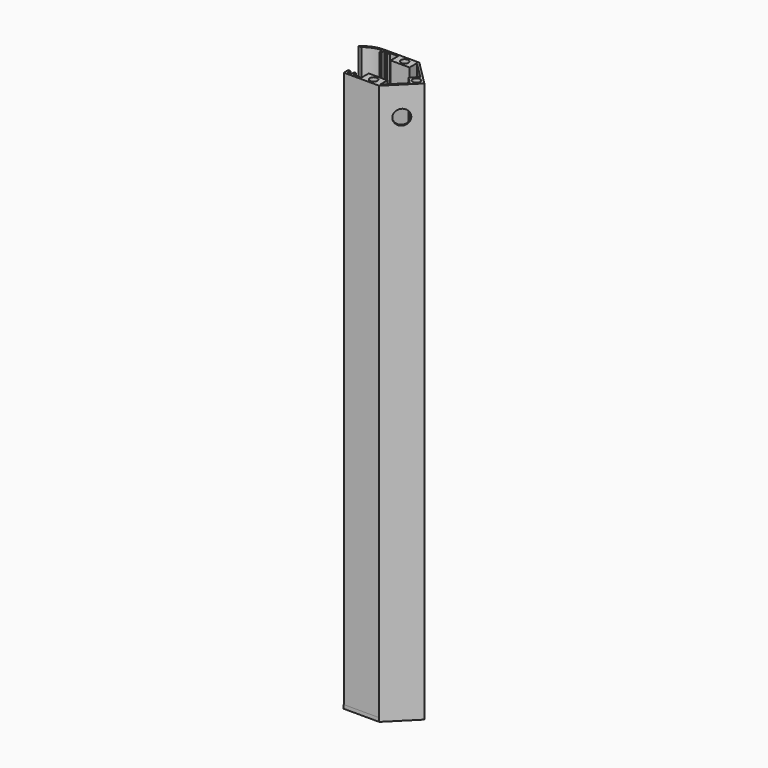
from build123d import *

# Parameters (mm, degrees)
SKETCH_R     = 1
PAD_DEPTH    = 150
SKETCH004_R  = 2
POCKET_DEPTH = 1
SKETCH001_R  = 1
PAD001_DEPTH = 1
SKETCH005_R  = 1.3
PAD002_DEPTH = 1
PAD003_DEPTH = 5


with BuildPart() as body:
    # Sketch → Pad (new body)
    with BuildSketch(Plane.XY):
        with BuildLine():
            Line((-4.454193, -6.866201), (5.045807, -6.866201))
            Line((11.763321, -0.148687), (5.045807, -6.866201))
            Line((5.045807, 6.568828), (11.763321, -0.148687))
            Line((-4.454193, 6.568828), (5.045807, 6.568828))
            ThreePointArc((-4.454193, 6.568828), (-7.200425, 6.003205), (-9.521158, 4.4297))
            Line((-9.521158, 4.4297), (-8.791158, 4.4297))
            ThreePointArc((-4.454193, 6.068828), (-6.769302, 5.637222), (-8.791158, 4.4297))
            Line((-4.454193, 5.068828), (-4.454193, 6.068828))
            Line((-4.454193, 5.068828), (-3.954193, 5.068828))
            Line((-3.954193, 5.068828), (-3.954193, 6.068828))
            Line((-3.954193, 6.068828), (-2.954193, 6.068828))
            Line((-2.954193, 5.068828), (-2.954193, 6.068828))
            Line((-2.954193, 5.068828), (-2.454193, 5.068828))
            Line((-2.454193, 5.068828), (-2.454193, 6.068828))
            Line((-2.454193, 6.068828), (-0.254193, 6.068828))
            Line((-0.254193, 6.068828), (-0.254193, 3.568828))
            Line((-0.254193, 3.568828), (4.814107, 3.568828))
            Line((4.814107, 6.068828), (4.814107, 3.568828))
            Line((4.814107, 6.068828), (9.27618, 1.606755))
            Line((9.27618, 1.606755), (7.513507, -0.185418))
            Line((9.263853, -1.953186), (7.513507, -0.185418))
            Line((4.850837, -6.366201), (9.263853, -1.953186))
            Line((4.850837, -6.366201), (4.850837, -3.866201))
            Line((-0.154193, -3.866201), (4.850837, -3.866201))
            Line((-0.154193, -6.366201), (-0.154193, -3.866201))
            Line((-2.354193, -6.366201), (-0.154193, -6.366201))
            Line((-2.354193, -5.366201), (-2.354193, -6.366201))
            Line((-2.854193, -5.366201), (-2.354193, -5.366201))
            Line((-2.854193, -6.366201), (-2.854193, -5.366201))
            Line((-3.854193, -6.366201), (-2.854193, -6.366201))
            Line((-3.854193, -5.366201), (-3.854193, -6.366201))
            Line((-4.454193, -5.366201), (-3.854193, -5.366201))
            Line((-4.454193, -6.866201), (-4.454193, -5.366201))
        make_face()
        with Locations((2.350837, -5.366201)):
            Circle(SKETCH_R, mode=Mode.SUBTRACT)
        with Locations((2.314107, 5.068828)):
            Circle(SKETCH_R, mode=Mode.SUBTRACT)
        with Locations((9.642001, -0.148687)):
            Circle(SKETCH_R, mode=Mode.SUBTRACT)
    extrude(amount=PAD_DEPTH)

    # Sketch004 (on Face2 of Pad) → Pocket (cut)
    with BuildSketch(Plane(origin=(5.956004, -5.956004, 0), x_dir=(0.707107, 0.707107, 0), z_dir=(0.707107, -0.707107, 0))):
        with Locations((3.462787, 142.306854)):
            Circle(SKETCH004_R)
    extrude(amount=-POCKET_DEPTH, mode=Mode.SUBTRACT)


with BuildPart() as body001:
    # Sketch001 → Pad001 (new body)
    with BuildSketch(Plane.XY):
        with BuildLine():
            Line((-4.487243, -6.866201), (5.012757, -6.866201))
            Line((11.730272, -0.148687), (5.012757, -6.866201))
            Line((5.012757, 6.568828), (11.730272, -0.148687))
            Line((-4.487243, 6.568828), (5.012757, 6.568828))
            ThreePointArc((-4.487243, 6.568828), (-7.233475, 6.003205), (-9.554208, 4.4297))
            Line((-9.554208, 4.4297), (-8.824208, 4.4297))
            ThreePointArc((-4.487243, -5.366201), (-2.897395, 1.195685), (-8.824208, 4.4297))
            Line((-4.487243, -6.866201), (-4.487243, -5.366201))
        make_face()
        with Locations((2.368258, -5.366201)):
            Circle(SKETCH001_R, mode=Mode.SUBTRACT)
        with Locations((2.336373, 5.068828)):
            Circle(SKETCH001_R, mode=Mode.SUBTRACT)
        with Locations((9.608951, -0.148687)):
            Circle(SKETCH001_R, mode=Mode.SUBTRACT)
    extrude(amount=PAD001_DEPTH)


with BuildPart() as body002:
    # Sketch005 → Pad002 (new body)
    with BuildSketch(Plane.XY):
        with BuildLine():
            ThreePointArc((3.5, 1.936492), (0, 4), (-3.5, 1.936492))
            Line((-5, -6), (-3.5, 1.936492))
            Line((-5, -6), (5, -6))
            Line((5, -6), (3.5, 1.936492))
        make_face()
        with Locations((0, 0.7)):
            Circle(SKETCH005_R, mode=Mode.SUBTRACT)
    extrude(amount=PAD002_DEPTH)

    # Sketch006 (on Face7 of Pad002) → Pad003 (join)
    with BuildSketch(Plane.XY.offset(1)):
        Polygon((-4.811, -5), (4.811, -5), (5, -6), (-5, -6), align=None)
    extrude(amount=PAD003_DEPTH)


solid = Compound([body.part, body001.part, body002.part])
